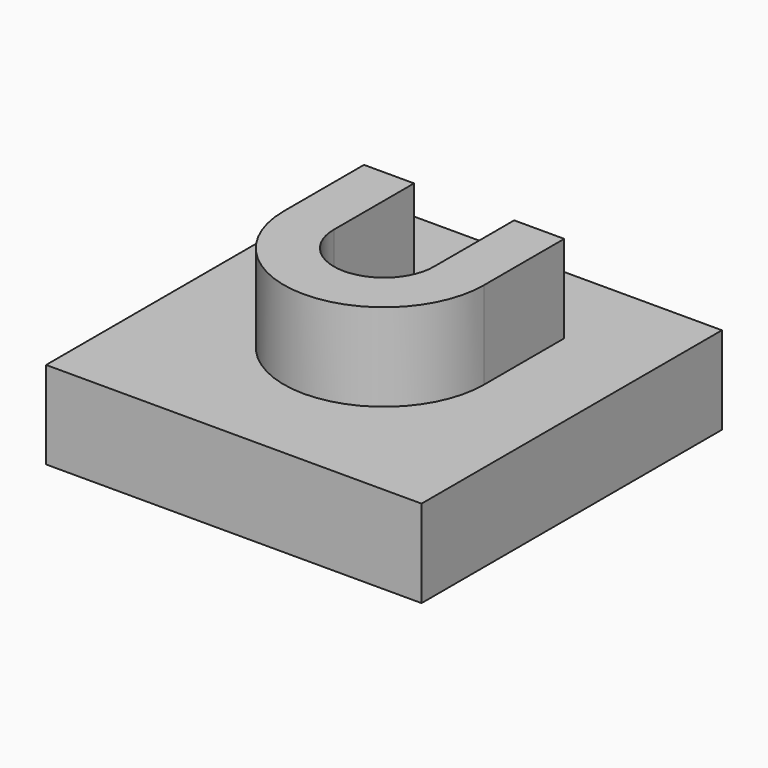
from build123d import *

# Parameters (mm, degrees)
F0_W      = 30
F0_H      = 30
F1_DEPTH  = 7
F3_DEPTH  = 7
F3_FACE_W = 4
F3_FACE_H = 7
F4_DEPTH  = 8


with BuildPart() as f1:
    # F0 (on Top) → F1 (new body)
    with BuildSketch(Plane.XY):
        Rectangle(F0_W, F0_H)
    extrude(amount=F1_DEPTH)

    # F2 (on face) → F3 (join)
    with BuildSketch(Plane.XY.offset(7)):
        with BuildLine():
            ThreePointArc((4, 0), (0, -4), (-4, 0))
            Line((-4, 0), (-8, 0))
            ThreePointArc((-8, 0), (0, -8), (8, 0))
            Line((8, 0), (4, 0))
        make_face()
    extrude(amount=F3_DEPTH)

    # F3_face (on face) → F4 (join)
    with BuildSketch(Plane(origin=(-6, 0, 10.5), x_dir=(-1, 0, 0), z_dir=(0, 1, 0))):
        Rectangle(F3_FACE_W, F3_FACE_H)
        with Locations((-12, 0)):
            Rectangle(F3_FACE_W, F3_FACE_H)
    extrude(amount=F4_DEPTH)


solid = f1.part
